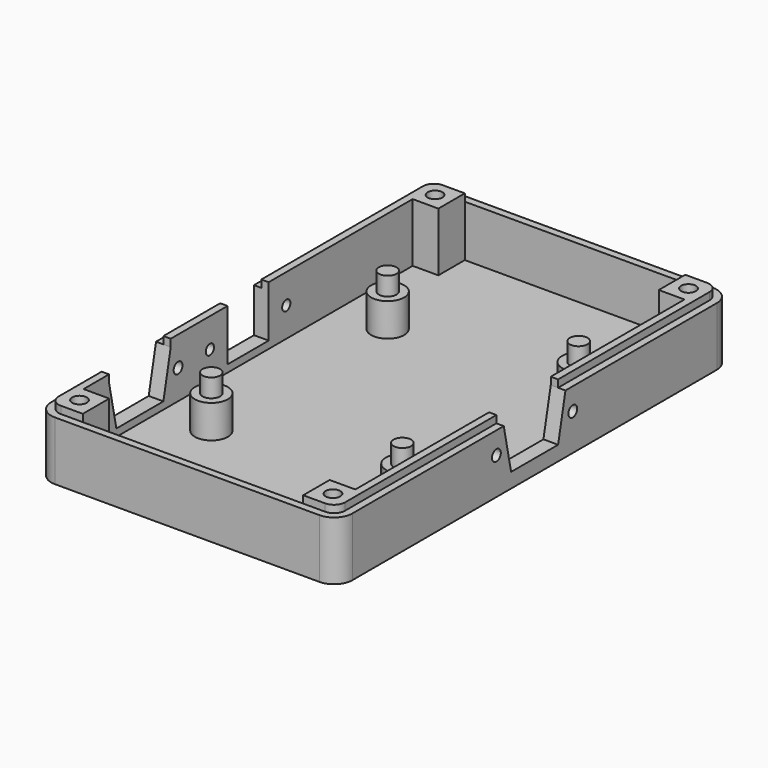
from build123d import *

# Parameters (mm, degrees)
F1_DEPTH        = 16
F2_T            = -2
F3_R            = 4.5
F4_DEPTH        = 9
F6_R            = 2.4
F7_DEPTH        = 5
F3_W            = 2
F3_H            = 112
F8_DEPTH        = 16
F9_R            = 1.4
F9_W            = 14
F9_H            = 12
F9_H_2          = 2
F9_R_2          = 1.5
F9_W_2          = 21
F11_DEPTH       = 4
F10_R           = 1.5
F10_W           = 21
F10_H           = 2
F12_DEPTH       = 4
F13_D           = 4
F13_CSINK_D     = 7
F13_CSINK_ANGLE = 60
F14_D           = 7
F14_DEPTH       = 2.001


with BuildPart() as f1:
    # F0 (on Top) → F1 (new body)
    with BuildSketch(Plane.XY):
        with BuildLine():
            Line((-36, -67), (36, -67))
            ThreePointArc((36, -67), (39.5355339059, -65.5355339059), (41, -62))
            Line((41, -62), (41, 62))
            ThreePointArc((41, 62), (39.5355339059, 65.5355339059), (36, 67))
            Line((36, 67), (-36, 67))
            ThreePointArc((-36, 67), (-39.5355339059, 65.5355339059), (-41, 62))
            Line((-41, 62), (-41, -62))
            ThreePointArc((-41, -62), (-39.5355339059, -65.5355339059), (-36, -67))
        make_face()
    extrude(amount=F1_DEPTH)

    # F2
    f2_openings = [f1.faces().sort_by_distance(p)[0] for p in [
        (0, 0, 16),
    ]]
    offset(amount=F2_T, openings=f2_openings)

    # F3 (on face) → F4 (join)
    with BuildSketch(Plane.XY.offset(2)):
        with Locations((-23, 30)):
            Circle(F3_R)
        with Locations((-23, -30)):
            Circle(F3_R)
        with Locations((29, -30)):
            Circle(F3_R)
        with Locations((29, 30)):
            Circle(F3_R)
    extrude(amount=F4_DEPTH)

    # F6 (on mid) → F7 (join)
    with BuildSketch(Plane.XY.offset(11)):
        with Locations((-23, 30)):
            Circle(F6_R)
        with Locations((29, 30)):
            Circle(F6_R)
        with Locations((-23, -30)):
            Circle(F6_R)
        with Locations((29, -30)):
            Circle(F6_R)
    extrude(amount=F7_DEPTH)

    # F3 (on face) → F8 (join)
    with BuildSketch(Plane.XY.offset(2)):
        with BuildLine():
            Line((-37, 56), (-30, 56))
            Line((-30, 56), (-30, 65))
            Line((-30, 65), (-36, 65))
            ThreePointArc((-36, 65), (-38.1213203436, 64.1213203436), (-39, 62))
            Line((-39, 62), (-39, 56))
            Line((-39, 56), (-37, 56))
        make_face()
        with BuildLine():
            Line((36, 65), (30, 65))
            Line((30, 65), (30, 56))
            Line((30, 56), (37, 56))
            Line((37, 56), (39, 56))
            Line((39, 56), (39, 62))
            ThreePointArc((39, 62), (38.1213203436, 64.1213203436), (36, 65))
        make_face()
        with BuildLine():
            Line((30, -56), (30, -65))
            Line((30, -65), (36, -65))
            ThreePointArc((36, -65), (38.1213203436, -64.1213203436), (39, -62))
            Line((39, -62), (39, -56))
            Line((39, -56), (37, -56))
            Line((37, -56), (30, -56))
        make_face()
        with BuildLine():
            Line((-30, -56), (-37, -56))
            Line((-37, -56), (-39, -56))
            Line((-39, -56), (-39, -62))
            ThreePointArc((-39, -62), (-38.1213203436, -64.1213203436), (-36, -65))
            Line((-36, -65), (-30, -65))
            Line((-30, -65), (-30, -56))
        make_face()
        with Locations((-38, 0)):
            Rectangle(F3_W, F3_H)
        with Locations((38, 0)):
            Rectangle(F3_W, F3_H)
    extrude(amount=F8_DEPTH)

    # F9 (on face) → F11 (cut)
    with BuildSketch(Plane(origin=(-41, 0, 0), x_dir=(0, -1, 0), z_dir=(-1, 0, 0))):
        with Locations((-13, 10)):
            Circle(F9_R)
        with Locations((13, 10)):
            Circle(F9_R)
        with Locations((0, 10)):
            Rectangle(F9_W, F9_H)
        with Locations((0, 17)):
            Rectangle(F9_W, F9_H_2)
        with Locations((23.825, 10)):
            Circle(F9_R_2)
        with Locations((49.825, 10)):
            Circle(F9_R_2)
        with Locations((36.825, 17)):
            Rectangle(F9_W_2, F9_H_2)
        Polygon((47.325, 16), (26.325, 16), (28.825, 4), (44.825, 4), align=None)
    extrude(amount=-F11_DEPTH, mode=Mode.SUBTRACT)

    # F10 (on face) → F12 (cut)
    with BuildSketch(Plane.YZ.offset(41)):
        with Locations((-13, 10)):
            Circle(F10_R)
        with Locations((13, 10)):
            Circle(F10_R)
        with Locations((0, 17)):
            Rectangle(F10_W, F10_H)
        Polygon((10.5, 16), (-10.5, 16), (-8, 4), (8, 4), align=None)
    extrude(amount=-F12_DEPTH, mode=Mode.SUBTRACT)

    # F13 (through all)
    with Locations(Plane(origin=(0, 0, 2), x_dir=(1, 0, 0), z_dir=(0, 0, -1))):
        with Locations((34.5, -60.5), (-34.5, -60.5), (-34.5, 60.5), (34.5, 60.5)):
            CounterSinkHole(F13_D / 2, F13_CSINK_D / 2, counter_sink_angle=F13_CSINK_ANGLE)

    # F14 (through all, one way)
    with BuildSketch(Plane.XY.offset(2)):
        with Locations((-34.5, 60.5), (-34.5, -60.5), (34.5, 60.5), (34.5, -60.5)):
            Circle(F14_D / 2)
    extrude(amount=-F14_DEPTH, mode=Mode.SUBTRACT)


solid = f1.part
